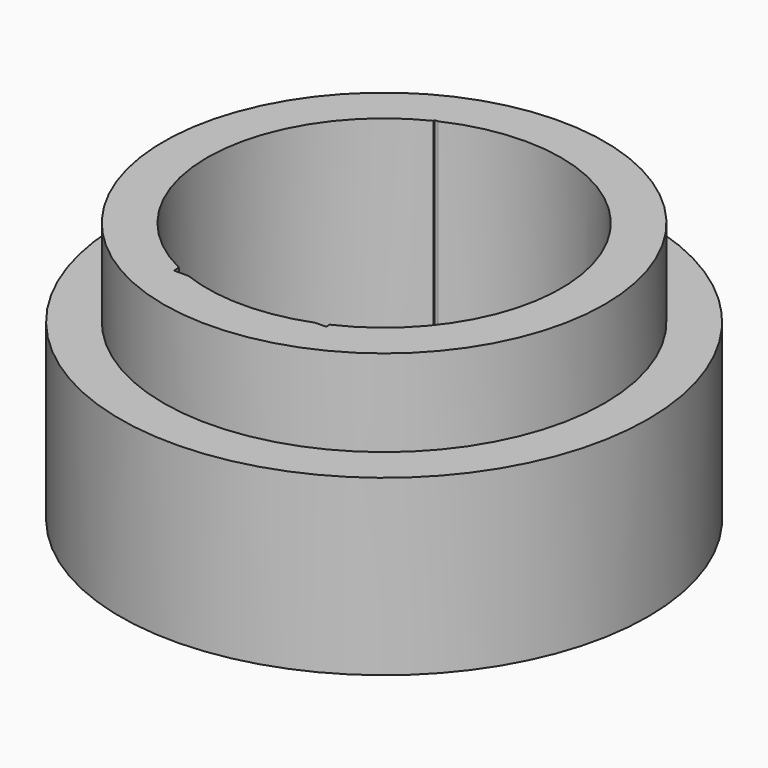
from build123d import *

# Parameters (mm, degrees)
F0_R     = 10.15
F0_R_2   = 8.15
F1_DEPTH = 4
F2_R     = 12.15
F2_R_2   = 8.15
F3_DEPTH = 8
F4_W     = 7
F4_H     = 15
F5_DEPTH = 17.272
F6_W     = 9.9999997467
F6_H     = 4
F7_DEPTH = 3


with BuildPart() as f1:
    # F0 (on Top) → F1 (new body)
    with BuildSketch(Plane.XY):
        Circle(F0_R)
        Circle(F0_R_2, mode=Mode.SUBTRACT)
    extrude(amount=F1_DEPTH)

    # F2 (on face) → F3 (join)
    with BuildSketch(Plane(origin=(0, 0, 0), x_dir=(1, 0, 0), z_dir=(0, 0, -1))):
        Circle(F2_R)
        Circle(F2_R_2, mode=Mode.SUBTRACT)
    extrude(amount=F3_DEPTH)

    # F4 (on face) → F5 (cut)
    with BuildSketch(Plane(origin=(0, 0, -8), x_dir=(1, 0, 0), z_dir=(0, 0, -1))):
        with Locations((-0.0862163142, 0.1069762555)):
            Rectangle(F4_W, F4_H)
    extrude(amount=-F5_DEPTH, mode=Mode.SUBTRACT)

    # F6 (on face) → F7 (join)
    with BuildSketch(Plane(origin=(0, 0, -8), x_dir=(1, 0, 0), z_dir=(0, 0, -1))):
        with BuildLine():
            ThreePointArc((-3.5862161876, 7.3185760583), (-8.1500001267, 0), (-3.5862161876, -7.3185760583))
            Line((-3.5862161876, -7.3185760583), (-3.5862161876, -7.3930236179))
            Line((-3.5862161876, -7.3930236179), (-3.4301165755, -7.3930236179))
            ThreePointArc((-3.4301165755, -7.3930236179), (-0.0089980782, -8.1499949061), (3.4137835591, -7.4005796899))
            Line((3.4137835591, -7.4005796899), (3.4137835591, -7.3930236179))
            Line((3.4137835591, -7.3930236179), (3.4301165755, -7.3930236179))
            ThreePointArc((3.4301165755, -7.3930236179), (8.1499949061, 0.0089980782), (3.4137835591, 7.4005796899))
            Line((3.4137835591, 7.4005796899), (3.4137835591, 7.6069761288))
            Line((3.4137835591, 7.6069761288), (2.9251345458, 7.6069761288))
            ThreePointArc((2.9251345458, 7.6069761288), (0, 8.1499998733), (-2.9251345458, 7.6069761288))
            Line((-2.9251345458, 7.6069761288), (-3.5862161876, 7.6069761288))
            Line((-3.5862161876, 7.6069761288), (-3.5862161876, 7.3185760583))
        make_face()
        with Locations((-0.0862163142, -3.5)):
            Rectangle(F6_W, F6_H, mode=Mode.SUBTRACT)
        with Locations((-0.0862163142, 3.5)):
            Rectangle(F6_W, F6_H, mode=Mode.SUBTRACT)
        with BuildLine():
            Line((3.4137835591, -7.3930236179), (3.4137835591, -7.4005796899))
            ThreePointArc((3.4137835591, -7.4005796899), (3.4219521529, -7.396806162), (3.4301165755, -7.3930236179))
            Line((3.4301165755, -7.3930236179), (3.4137835591, -7.3930236179))
        make_face()
    extrude(amount=-F7_DEPTH)


solid = f1.part
